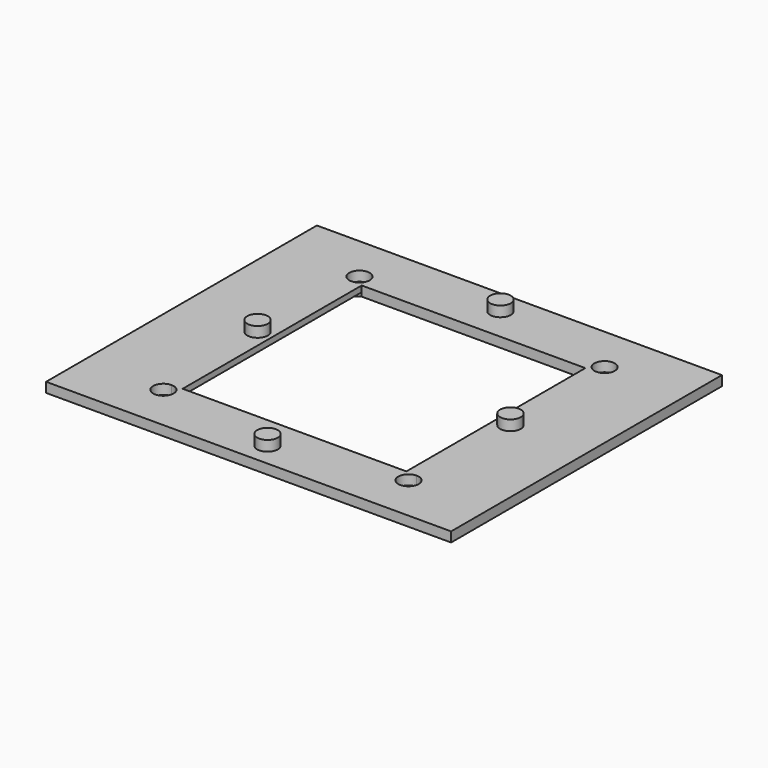
from build123d import *

# Parameters (mm, degrees)
F0_W     = 105.7758629322
F0_H     = 88.4018465877
F0_R     = 2.6924
F1_DEPTH = 2.5654
F2_DEPTH = 1.016
F3_R     = 2.6924
F4_DEPTH = 2.7051


with BuildPart() as f1:
    # F0 (on Top) → F1 (new body)
    with BuildSketch(Plane.XY):
        Rectangle(F0_W, F0_H)
        with BuildLine():
            ThreePointArc((-32.004, -29.337), (-30.1181462146, -30.1181462146), (-29.337, -32.004))
            ThreePointArc((-29.337, -32.004), (-33.8898537854, -33.8898537854), (-32.004, -29.337))
        make_face(mode=Mode.SUBTRACT)
        with Locations((0, -38.0238)):
            Circle(F0_R, mode=Mode.SUBTRACT)
        with BuildLine():
            ThreePointArc((32.004, -29.337), (33.8898537854, -30.1181462146), (34.671, -32.004))
            ThreePointArc((34.671, -32.004), (30.1181462146, -33.8898537854), (32.004, -29.337))
        make_face(mode=Mode.SUBTRACT)
        with BuildLine():
            ThreePointArc((-32.004, 29.337), (-33.8898537854, 33.8898537854), (-29.337, 32.004))
            ThreePointArc((-29.337, 32.004), (-30.1181462146, 30.1181462146), (-32.004, 29.337))
        make_face(mode=Mode.SUBTRACT)
        with BuildLine():
            Line((35.56, -24.13), (29.21, -29.21))
            Line((29.21, -29.21), (-29.21, -29.21))
            Line((-29.21, -29.21), (-35.56, -24.13))
            Line((-35.56, -24.13), (-35.56, -0.8929825082))
            ThreePointArc((-35.56, -0.8929825082), (-35.7124, 0), (-35.56, 0.8929825082))
            Line((-35.56, 0.8929825082), (-35.56, 24.13))
            Line((-35.56, 24.13), (-29.21, 29.21))
            Line((-29.21, 29.21), (0, 29.21))
            Line((0, 29.21), (29.21, 29.21))
            Line((29.21, 29.21), (35.56, 24.13))
            Line((35.56, 24.13), (35.56, 0.8929825082))
            ThreePointArc((35.56, 0.8929825082), (35.6740265409, 0.4529468843), (35.7124, 0))
            ThreePointArc((35.7124, 0), (35.6740265409, -0.4529468843), (35.56, -0.8929825082))
            Line((35.56, -0.8929825082), (35.56, -24.13))
        make_face(mode=Mode.SUBTRACT)
        with BuildLine():
            ThreePointArc((2.6924, 38.0238), (1.9038142977, 36.1199857023), (0, 35.3314))
            ThreePointArc((0, 35.3314), (-1.9038142977, 39.9276142977), (2.6924, 38.0238))
        make_face(mode=Mode.SUBTRACT)
        with BuildLine():
            ThreePointArc((32.004, 29.337), (30.1181462146, 33.8898537854), (34.671, 32.004))
            ThreePointArc((34.671, 32.004), (33.8898537854, 30.1181462146), (32.004, 29.337))
        make_face(mode=Mode.SUBTRACT)
        with BuildLine():
            Line((-35.56, -24.13), (-29.21, -29.21))
            Line((-29.21, -29.21), (-29.21, 29.21))
            Line((-29.21, 29.21), (-35.56, 24.13))
            Line((-35.56, 24.13), (-35.56, 0.8929825082))
            ThreePointArc((-35.56, 0.8929825082), (-32.5670531157, 2.6540265409), (-30.3276, 0))
            ThreePointArc((-30.3276, 0), (-32.5670531157, -2.6540265409), (-35.56, -0.8929825082))
            Line((-35.56, -0.8929825082), (-35.56, -24.13))
        make_face()
        with BuildLine():
            Line((29.21, 29.21), (29.21, -29.21))
            Line((29.21, -29.21), (35.56, -24.13))
            Line((35.56, -24.13), (35.56, -0.8929825082))
            ThreePointArc((35.56, -0.8929825082), (30.3276, 0), (35.56, 0.8929825082))
            Line((35.56, 0.8929825082), (35.56, 24.13))
            Line((35.56, 24.13), (29.21, 29.21))
        make_face()
        with BuildLine():
            ThreePointArc((2.6924, 38.0238), (-1.9038142977, 39.9276142977), (0, 35.3314))
            ThreePointArc((0, 35.3314), (1.9038142977, 36.1199857023), (2.6924, 38.0238))
        make_face()
        with Locations((0, -38.0238)):
            Circle(F0_R)
        with BuildLine():
            Line((-35.56, 0.8929825082), (-35.56, -0.8929825082))
            ThreePointArc((-35.56, -0.8929825082), (-32.5670531157, -2.6540265409), (-30.3276, 0))
            ThreePointArc((-30.3276, 0), (-32.5670531157, 2.6540265409), (-35.56, 0.8929825082))
        make_face()
        with BuildLine():
            ThreePointArc((35.56, 0.8929825082), (30.3276, 0), (35.56, -0.8929825082))
            Line((35.56, -0.8929825082), (35.56, 0.8929825082))
        make_face()
        with BuildLine():
            Line((35.56, 0.8929825082), (35.56, -0.8929825082))
            ThreePointArc((35.56, -0.8929825082), (35.6740265409, -0.4529468843), (35.7124, 0))
            ThreePointArc((35.7124, 0), (35.6740265409, 0.4529468843), (35.56, 0.8929825082))
        make_face()
        with BuildLine():
            ThreePointArc((-35.56, 0.8929825082), (-35.7124, 0), (-35.56, -0.8929825082))
            Line((-35.56, -0.8929825082), (-35.56, 0.8929825082))
        make_face()
    extrude(amount=F1_DEPTH)

    # F0 (on Top) → F2 (cut)
    with BuildSketch(Plane.XY):
        with BuildLine():
            Line((29.21, 29.21), (29.21, -29.21))
            Line((29.21, -29.21), (35.56, -24.13))
            Line((35.56, -24.13), (35.56, -0.8929825082))
            ThreePointArc((35.56, -0.8929825082), (30.3276, 0), (35.56, 0.8929825082))
            Line((35.56, 0.8929825082), (35.56, 24.13))
            Line((35.56, 24.13), (29.21, 29.21))
        make_face()
        with BuildLine():
            ThreePointArc((35.56, 0.8929825082), (30.3276, 0), (35.56, -0.8929825082))
            Line((35.56, -0.8929825082), (35.56, 0.8929825082))
        make_face()
        with BuildLine():
            Line((-35.56, -24.13), (-29.21, -29.21))
            Line((-29.21, -29.21), (-29.21, 29.21))
            Line((-29.21, 29.21), (-35.56, 24.13))
            Line((-35.56, 24.13), (-35.56, 0.8929825082))
            ThreePointArc((-35.56, 0.8929825082), (-32.5670531157, 2.6540265409), (-30.3276, 0))
            ThreePointArc((-30.3276, 0), (-32.5670531157, -2.6540265409), (-35.56, -0.8929825082))
            Line((-35.56, -0.8929825082), (-35.56, -24.13))
        make_face()
        with BuildLine():
            Line((-35.56, 0.8929825082), (-35.56, -0.8929825082))
            ThreePointArc((-35.56, -0.8929825082), (-32.5670531157, -2.6540265409), (-30.3276, 0))
            ThreePointArc((-30.3276, 0), (-32.5670531157, 2.6540265409), (-35.56, 0.8929825082))
        make_face()
    extrude(amount=F2_DEPTH, mode=Mode.SUBTRACT)

    # F3 (on face) → F4 (join)
    with BuildSketch(Plane.XY.offset(2.5654)):
        with Locations((0, 38.0238)):
            Circle(F3_R)
        with Locations((0, -38.0238)):
            Circle(F3_R)
        with Locations((33.02, 0)):
            Circle(F3_R)
        with Locations((-33.02, 0)):
            Circle(F3_R)
    extrude(amount=F4_DEPTH)


solid = f1.part
